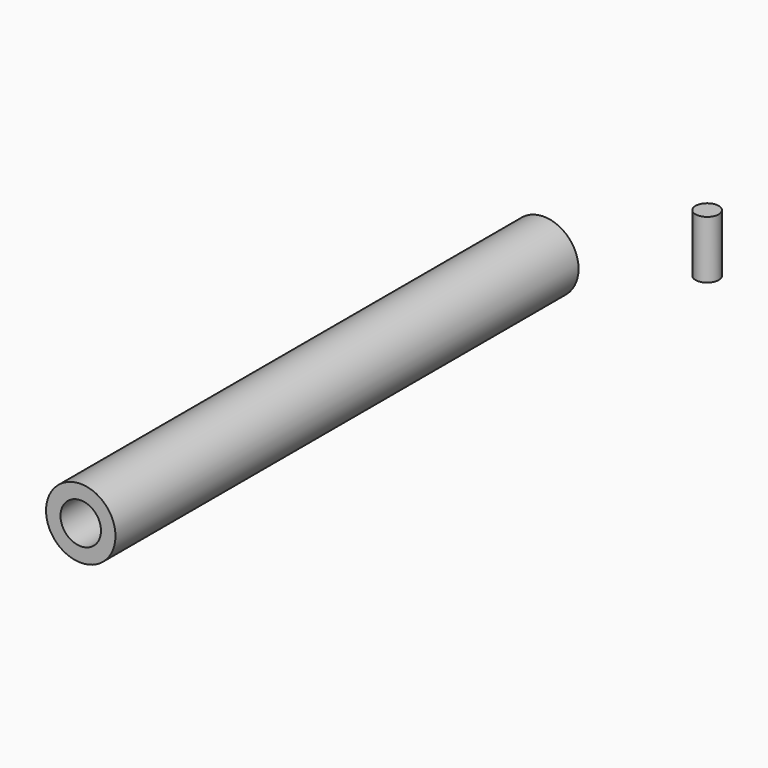
from build123d import *

# Parameters (mm, degrees)
F0_R     = 60
F0_R_2   = 35
F1_DEPTH = 1000
F2_R     = 20
F3_DEPTH = 100


with BuildPart() as f1:
    # F0 (on Front) → F1 (new body)
    with BuildSketch(Plane.XZ):
        Circle(F0_R)
        Circle(F0_R_2, mode=Mode.SUBTRACT)
    extrude(amount=F1_DEPTH)


with BuildPart() as f3:
    # F2 (on Top) → F3 (new body)
    with BuildSketch(Plane.XY):
        with Locations((208.182544, 92.443474)):
            Circle(F2_R)
    extrude(amount=F3_DEPTH)


solid = Compound([f1.part, f3.part])
